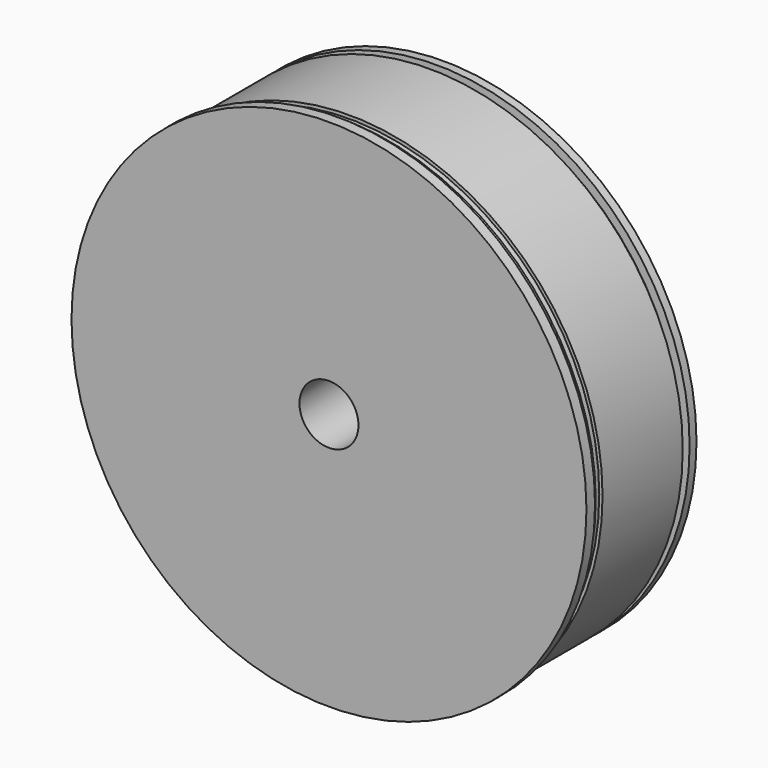
from build123d import *

# Parameters (mm, degrees)
F3_D = 10.3


with BuildPart() as f1:
    # F0 (on Top) → F1 (revolve)
    with BuildSketch(Plane.XY):
        Polygon((0, 25), (0, 0), (44.95, 0), (44.95, 1.8701055199), (44.1626615226, 1.8701055199), (44.1626615226, 3), (43.5877479613, 3), (43.5877479613, 4.5), (44.1626615226, 4.5), (44.1626615226, 22), (42.6626615226, 22), (42.6626615226, 23.5), (44.1626615226, 23.5), (44.1626615226, 25), align=None)
    revolve(axis=Axis((0, 12.5, 0), (0, 1, 0)))

    # F3 (through all)
    with Locations(Plane.XZ):
        with Locations((0, 0)):
            Hole(F3_D / 2)


solid = f1.part
